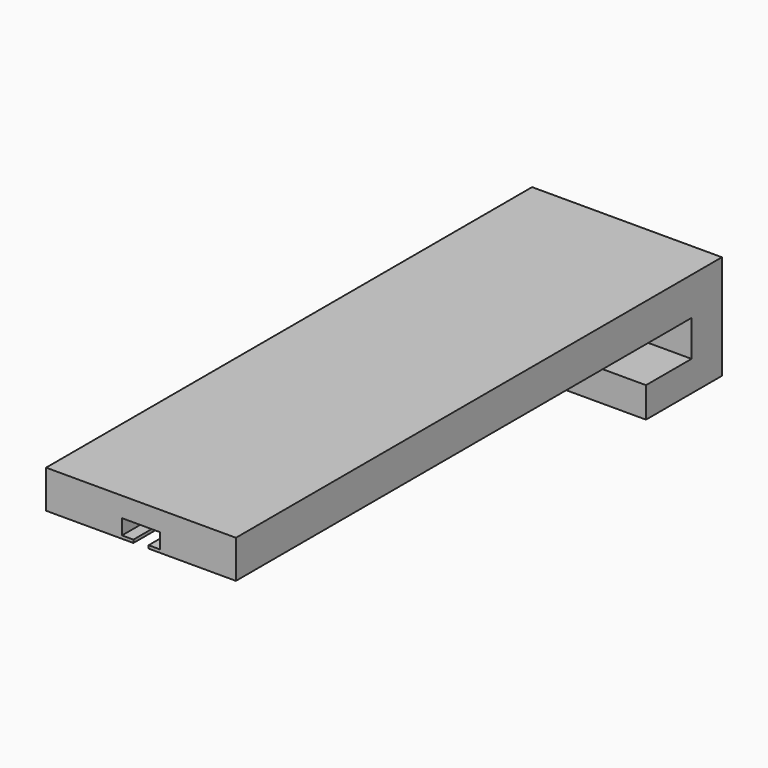
from build123d import *

# Parameters (mm, degrees)
F0_W     = 15.875
F0_H     = 50.8
F1_DEPTH = 3.175
F2_W     = 15.875
F2_H     = 3.175
F3_DEPTH = 5.55625
F4_W     = 15.875
F4_H     = 2.54
F5_DEPTH = 4.7625
F6_W     = 1.27
F6_H     = 0.2512368413
F7_DEPTH = 38.1


with BuildPart() as f1:
    # F0 (on Top) → F1 (new body)
    with BuildSketch(Plane.XY):
        Rectangle(F0_W, F0_H)
    extrude(amount=F1_DEPTH)

    # F2 (on face) → F3 (join)
    with BuildSketch(Plane(origin=(0, 0, 0), x_dir=(1, 0, 0), z_dir=(0, 0, -1))):
        with Locations((0, -23.8125)):
            Rectangle(F2_W, F2_H)
    extrude(amount=F3_DEPTH)

    # F4 (on face) → F5 (join)
    with BuildSketch(Plane.XZ.offset(-22.225)):
        with Locations((0, -4.28625)):
            Rectangle(F4_W, F4_H)
    extrude(amount=F5_DEPTH)

    # F6 (on face) → F7 (cut)
    with BuildSketch(Plane.XZ.offset(25.4)):
        Polygon((0.635, 0.2512368413), (1.5875, 0.2512368413), (1.5875, 1.5212368413), (-1.5875, 1.5212368413), (-1.5875, 0.2512368413), (-0.635, 0.2512368413), align=None)
        with Locations((0, 0.1256184207)):
            Rectangle(F6_W, F6_H)
    extrude(amount=-F7_DEPTH, mode=Mode.SUBTRACT)


solid = f1.part
